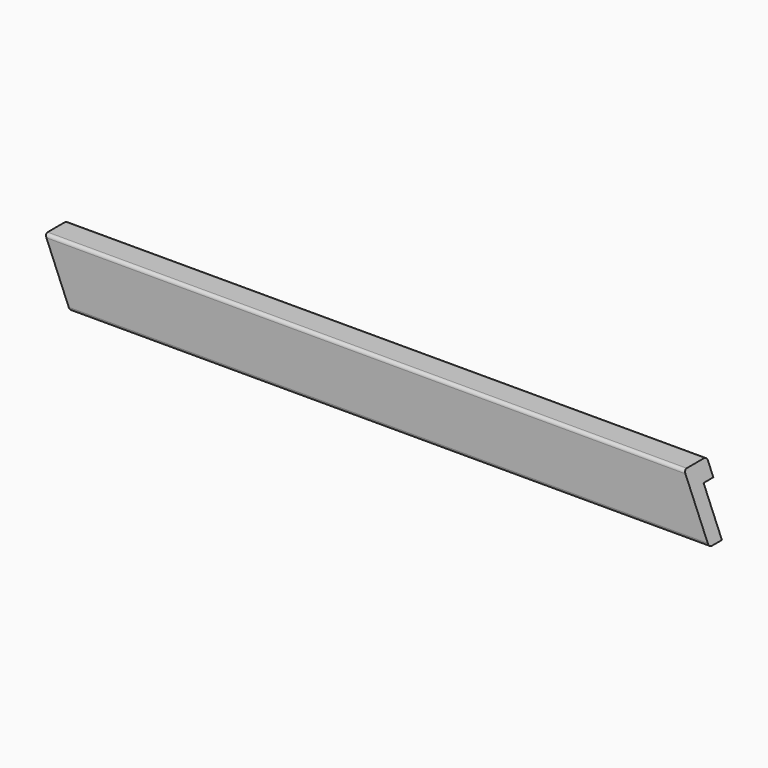
from build123d import *

# Parameters (mm, degrees)
F1_DEPTH = 44
F3_W     = 19
F3_H     = 69
F4_DEPTH = 1035.001
F5_R     = 5
F6_DEPTH = 44.001


with BuildPart() as f1:
    # F0 (on Front) → F1 (new body)
    with BuildSketch(Plane.XZ):
        Polygon((1035, 0), (0, 0), (38.936075, -94), (1035, -94), align=None)
    extrude(amount=-F1_DEPTH)

    # F3 (on face) → F4 (cut, through all)
    with BuildSketch(Plane.YZ.offset(1035)):
        with Locations((34.5, -59.5)):
            Rectangle(F3_W, F3_H)
    extrude(amount=-F4_DEPTH, mode=Mode.SUBTRACT)

    # F5
    f5_edges = [f1.edges().sort_by_distance(p)[0] for p in [
        (517.5, 0, 0),
        (536.968037, 0, -94),
        (517.5, 44, 0),
    ]]
    fillet(f5_edges, radius=F5_R)

    # F2 (on face) → F6 (cut, through all)
    with BuildSketch(Plane.XZ):
        Polygon((996.063925, 0), (1035, -94), (1035, 0), align=None)
    extrude(amount=-F6_DEPTH, mode=Mode.SUBTRACT)


solid = f1.part
